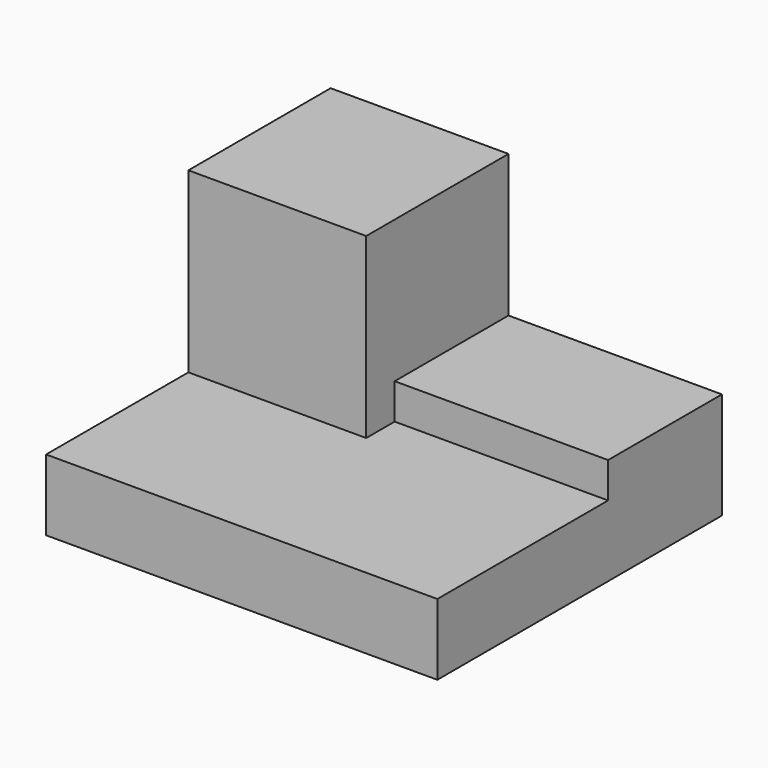
from build123d import *

# Parameters (mm, degrees)
F0_W     = 55
F0_H     = 50
F1_DEPTH = 10
F2_W     = 25
F2_H     = 25
F3_DEPTH = 25
F5_DEPTH = 5


with BuildPart() as f1:
    # F0 (on Top) → F1 (new body)
    with BuildSketch(Plane.XY):
        Rectangle(F0_W, F0_H)
    extrude(amount=F1_DEPTH)

    # F2 (on face) → F3 (join)
    with BuildSketch(Plane.XY.offset(10)):
        with Locations((-15, 12.5)):
            Rectangle(F2_W, F2_H)
    extrude(amount=F3_DEPTH)

    # F4 (on face) → F5 (join)
    with BuildSketch(Plane.XY.offset(10)):
        Polygon((-2.5, 5), (0, 5), (27.5, 5), (27.5, 25), (-2.5, 25), align=None)
    extrude(amount=F5_DEPTH)


solid = f1.part
